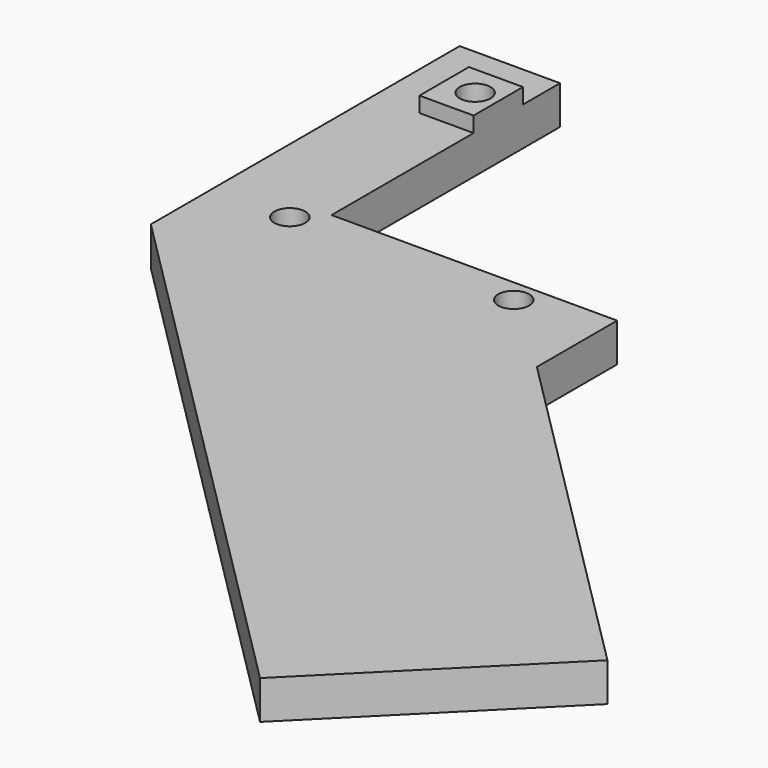
from build123d import *

# Parameters (mm, degrees)
F1_DEPTH = 6.35
F2_R     = 2.54
F3_DEPTH = 6.35
F4_W     = 8.89
F4_H     = 10.16
F5_DEPTH = 2.54
F6_R     = 2.54
F7_DEPTH = 25.4


with BuildPart() as f1:
    # F0 (on Top) → F1 (new body)
    with BuildSketch(Plane.XY):
        Polygon((0, 63.5), (0, 0), (89.802561, -89.802561), (121.552561, -58.052561), (63.5, 0), (63.5, 16.51), (16.51, 16.51), (16.51, 63.5), align=None)
    extrude(amount=F1_DEPTH)

    # F2 (on face) → F3 (cut)
    with BuildSketch(Plane.XY.offset(6.35)):
        with Locations((12.7, 50.8)):
            Circle(F2_R)
        with Locations((49.53, 12.7)):
            Circle(F2_R)
        with Locations((12.7, 12.7)):
            Circle(F2_R)
    extrude(amount=-F3_DEPTH, mode=Mode.SUBTRACT)

    # F4 (on face) → F5 (join)
    with BuildSketch(Plane.XY.offset(6.35)):
        with Locations((12.065, 50.8)):
            Rectangle(F4_W, F4_H)
    extrude(amount=F5_DEPTH)

    # F6 (on face) → F7 (cut)
    with BuildSketch(Plane.XY.offset(8.89)):
        with Locations((12.7, 50.8)):
            Circle(F6_R)
    extrude(amount=-F7_DEPTH, mode=Mode.SUBTRACT)


solid = f1.part
